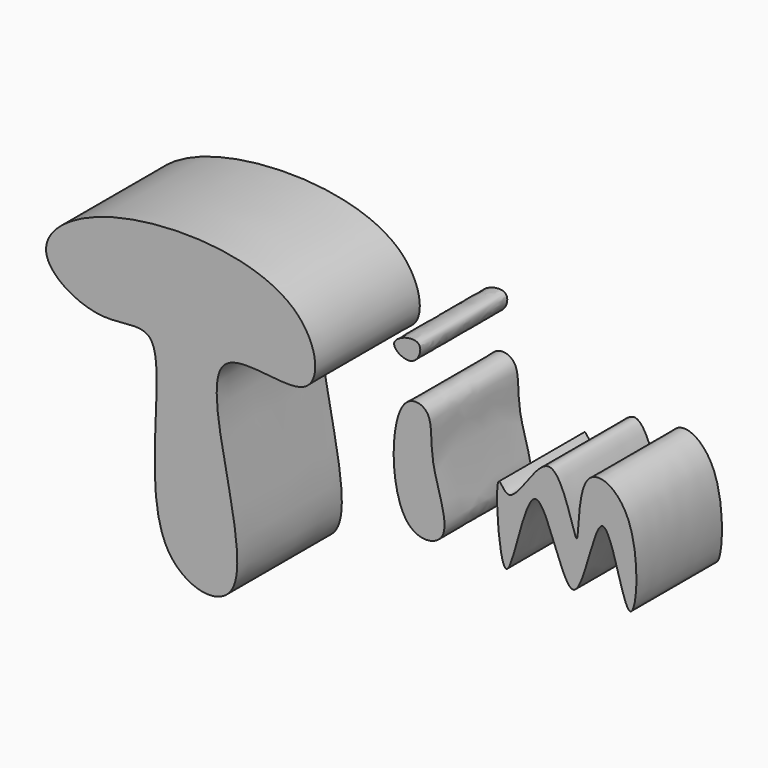
from build123d import *

# Parameters (mm, degrees)
F1_DEPTH = 36.322
F3_DEPTH = 30.226
F5_DEPTH = 29.718


with BuildPart() as f1:
    # F0 (on Front) → F1 (new body)
    with BuildSketch(Plane.XZ):
        with BuildLine():
            add(Edge.make_bspline(
                [(-58.3959259093, 45.31371966), (-57.3649575473, 40.3947044151), (-43.2096523924, 31.8892501944), (-21.0629727788, 42.0196794444), (-36.7576276991, -21.0267317288), (7.4567719863, -28.9025143461), (-25.3873033245, 47.9572937464), (19.353064262, 28.300536212), (15.1341854452, 63.8618645354), (-42.908881695, 65.2469800579), (-59.4958073553, 50.5615369551), (-58.3959259093, 45.31371966)],
                knots=[0, 0, 0, 0, 0.0903907567, 0.168313842, 0.3166935408, 0.4066449324, 0.5600991033, 0.6606009443, 0.7492469402, 0.9035672482, 1, 1, 1, 1], degree=3))
        make_face()
    extrude(amount=F1_DEPTH)


with BuildPart() as f3:
    # F2 (on Front) → F3 (new body)
    with BuildSketch(Plane.XZ):
        with BuildLine():
            add(Edge.make_bspline(
                [(36.213055253, 36.9714461267), (32.0327400358, 32.0049014593), (32.0635127082, 3.5152467107), (51.4876553492, 6.1903601876), (42.2431555996, 25.2718004728), (44.8214073086, 38.0537980335), (38.1245689491, 39.2424753818), (36.213055253, 36.9714461267)],
                knots=[0, 0, 0, 0, 0.2904969045, 0.4548307594, 0.6811228577, 0.8671658038, 1, 1, 1, 1], degree=3))
        make_face()
    extrude(amount=F3_DEPTH)


with BuildPart() as f3b:
    # F2 (on Front) → F3, piece 2 (new body)
    with BuildSketch(Plane.XZ):
        with BuildLine():
            add(Edge.make_bspline(
                [(40.0050021708, 53.0872046947), (38.4601560598, 54.3352425607), (29.5045986484, 51.4730785063), (39.2369081978, 45.579004719), (41.3428223624, 52.0064172655), (40.0050021708, 53.0872046947)],
                knots=[0, 0, 0, 0, 0.3609440295, 0.687426335, 1, 1, 1, 1], degree=3))
        make_face()
    extrude(amount=F3_DEPTH)


with BuildPart() as f5:
    # F4 (on Front) → F5 (new body)
    with BuildSketch(Plane.XZ):
        with BuildLine():
            add(Edge.make_bspline(
                [(61.9982741773, 26.1644069105), (60.7912035582, 25.0171239232), (63.3730545632, -13.97430247), (71.7014177891, 44.5596717298), (83.2103807594, -12.0056889673), (90.6232708183, 41.9876611588), (99.1682392641, -9.9594623936), (102.6241815414, 31.950123527), (82.9797283324, 41.0052646964), (85.2812225466, 6.6867887159), (77.5134213879, 46.7304887629), (65.3845653228, 18.344599951), (62.503721437, 26.6448187711), (61.9982741773, 26.1644069105)],
                knots=[0, 0, 0, 0, 0.1016253853, 0.2046260645, 0.3079525456, 0.4075335749, 0.5063683012, 0.6122919519, 0.6910164325, 0.7787149318, 0.8698493056, 0.9574455117, 1, 1, 1, 1], degree=3))
        make_face()
    extrude(amount=F5_DEPTH)


solid = Compound([f1.part, f3.part, f3b.part, f5.part])
